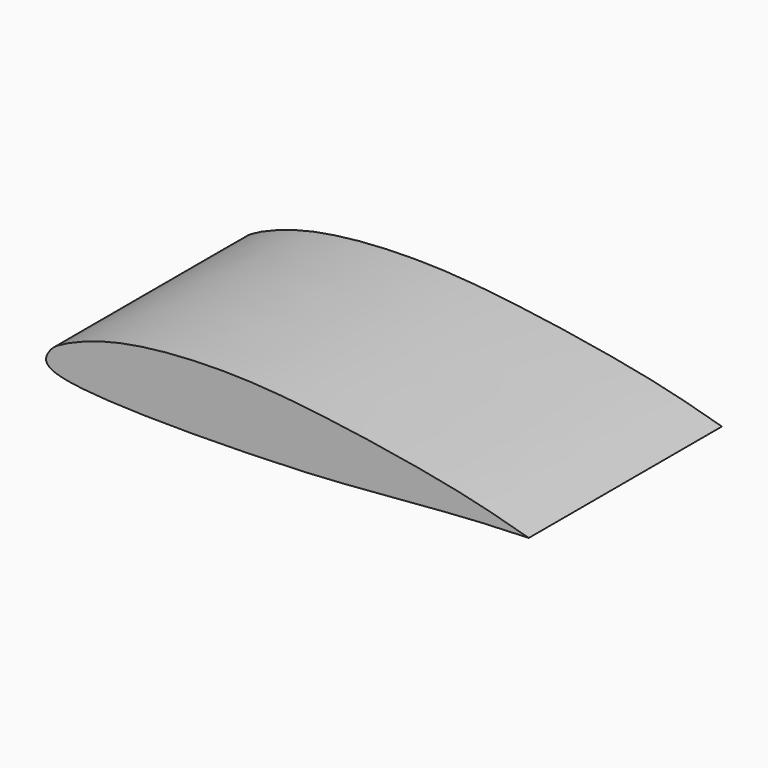
from build123d import *

# Parameters (mm, degrees)
F1_DEPTH = 500


with BuildPart() as f1:
    # F0 (on Front) → F1 (new body)
    with BuildSketch(Plane.XZ):
        with BuildLine():
            add(Edge.make_bspline(
                [(1000, 0), (948.1297593634, 14.5098018368), (849.1122457512, 42.1173074991), (561.6464850028, 88.7673719424), (348.5265637049, 104.3760119792), (138.7062323168, 85.9797741697), (29.174973605, 39.1798256004), (8.6993349224, 22.2663052118), (-0.3964540465, 6.6363919258), (0, 0)],
                knots=[0, 0, 0, 0, 0.0925736964, 0.2167340509, 0.3273316735, 0.4345646292, 0.5119367164, 0.5486331711, 0.5829851681, 0.5829851681, 0.5829851681, 0.5829851681], degree=3))
            Line((0, 0), (1000, 0))
        make_face()
        with BuildLine():
            Line((1000, 0), (0, 0))
            add(Edge.make_bspline(
                [(0, 0), (0.5140806813, -8.6053879697), (38.0688634842, -39.5123796962), (469.1267560358, -37.1342934472), (670.4115578606, -22.0904478155), (833.6142452738, -7.8062431402), (900.4013538361, -4.0751220658)],
                knots=[0.5829851681, 0.5829851681, 0.5829851681, 0.5829851681, 0.6275292917, 0.7780626123, 0.8916119102, 1, 1, 1, 1], degree=3))
            Line((900.4013538361, -4.0751220658), (1000, 0))
        make_face()
    extrude(amount=F1_DEPTH)


solid = f1.part
